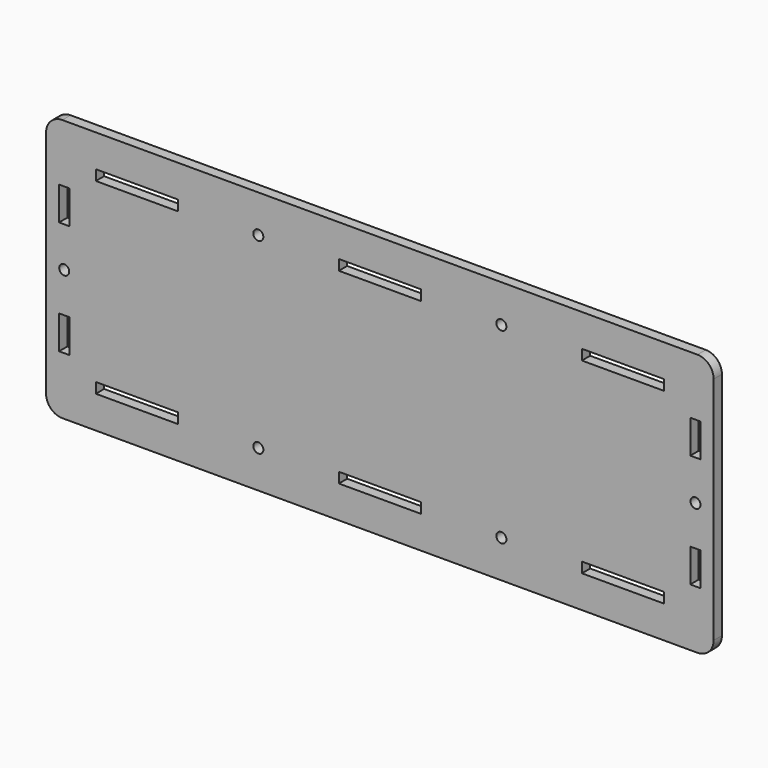
from build123d import *

# Parameters (mm, degrees)
F1_W     = 25.3
F1_H     = 3.2
F1_R     = 1.55
F1_W_2   = 3.2
F1_H_2   = 10.3
F2_DEPTH = 3.2
F3_R     = 5


with BuildPart() as f2:
    # F1 (on Front) → F2 (new body)
    with BuildSketch(Plane.XZ):
        Polygon((-99, 81), (-103, 81), (-103, 0), (-99, 0), (99, 0), (103, 0), (103, 81), (99, 81), align=None)
        with Locations((-75, 11.6)):
            Rectangle(F1_W, F1_H, mode=Mode.SUBTRACT)
        with Locations((-37.5, 11.6)):
            Circle(F1_R, mode=Mode.SUBTRACT)
        with Locations((0, 11.6)):
            Rectangle(F1_W, F1_H, mode=Mode.SUBTRACT)
        with Locations((-97.4, 23)):
            Rectangle(F1_W_2, F1_H_2, mode=Mode.SUBTRACT)
        with Locations((37.5, 11.6)):
            Circle(F1_R, mode=Mode.SUBTRACT)
        with Locations((75, 11.6)):
            Rectangle(F1_W, F1_H, mode=Mode.SUBTRACT)
        with Locations((97.4, 23)):
            Rectangle(F1_W_2, F1_H_2, mode=Mode.SUBTRACT)
        with Locations((-97.4, 40.5)):
            Circle(F1_R, mode=Mode.SUBTRACT)
        with Locations((-97.4, 58)):
            Rectangle(F1_W_2, F1_H_2, mode=Mode.SUBTRACT)
        with Locations((-75, 69.4)):
            Rectangle(F1_W, F1_H, mode=Mode.SUBTRACT)
        with Locations((-37.5, 69.4)):
            Circle(F1_R, mode=Mode.SUBTRACT)
        with Locations((0, 69.4)):
            Rectangle(F1_W, F1_H, mode=Mode.SUBTRACT)
        with Locations((97.4, 40.5)):
            Circle(F1_R, mode=Mode.SUBTRACT)
        with Locations((97.4, 58)):
            Rectangle(F1_W_2, F1_H_2, mode=Mode.SUBTRACT)
        with Locations((37.5, 69.4)):
            Circle(F1_R, mode=Mode.SUBTRACT)
        with Locations((75, 69.4)):
            Rectangle(F1_W, F1_H, mode=Mode.SUBTRACT)
    extrude(amount=F2_DEPTH)

    # F3
    f3_edges = [f2.edges().sort_by_distance(p)[0] for p in [
        (-103, -1.6, 81),
        (-103, -1.6, 0),
        (103, -1.6, 81),
        (103, -1.6, 0),
    ]]
    fillet(f3_edges, radius=F3_R)


solid = f2.part
